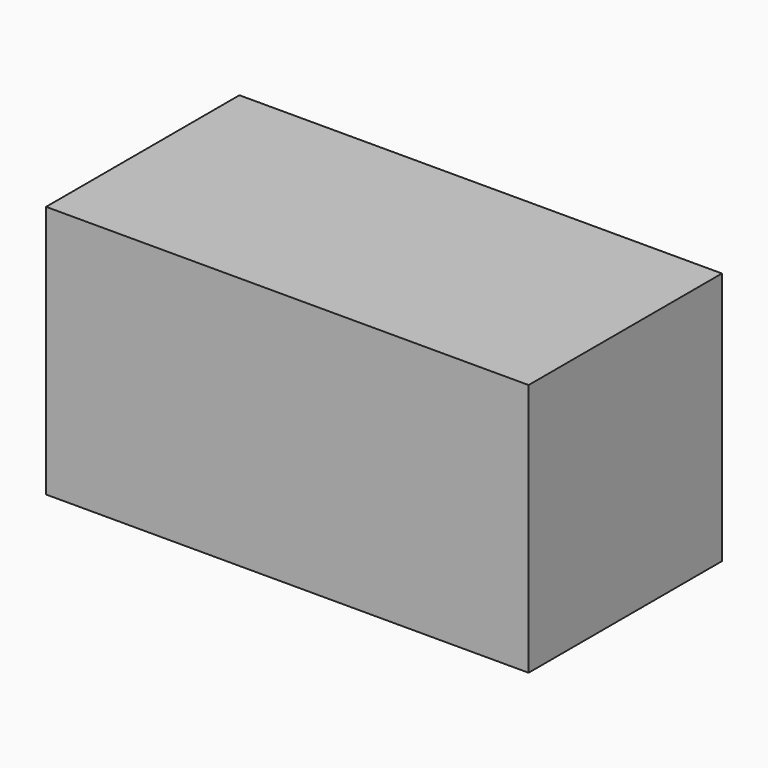
from build123d import *

# Parameters (mm, degrees)
SKETCH_W  = 19.05
SKETCH_H  = 10
PAD_DEPTH = 9.54


with BuildPart() as part:
    # Sketch → Pad (new body)
    with BuildSketch(Plane.XZ):
        Rectangle(SKETCH_W, SKETCH_H)
    extrude(amount=PAD_DEPTH)


solid = part.part
